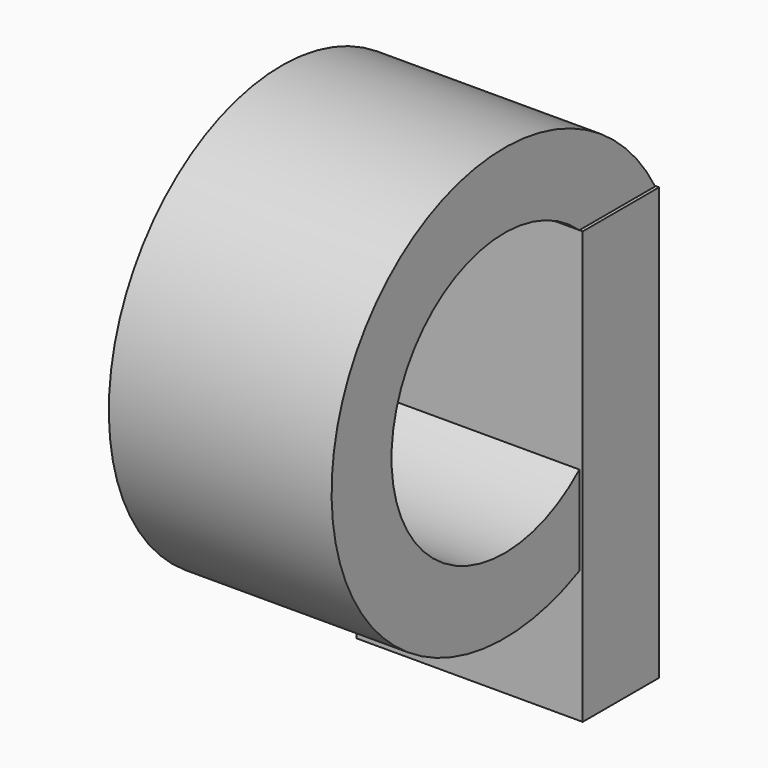
from build123d import *

# Parameters (mm, degrees)
F0_R     = 24.6246836301
F1_DEPTH = 25.4
F2_R     = 16.0828148766
F3_DEPTH = 25.401
F4_W     = 28.0453877614
F4_H     = 49.2377767596
F5_DEPTH = 25.77823
F6_DEPTH = 17.15412


with BuildPart() as f1:
    # F0 (on Right) → F1 (new body)
    with BuildSketch(Plane.YZ):
        with Locations((0, 37.2249111533)):
            Circle(F0_R)
    extrude(amount=-F1_DEPTH)

    # F2 (on face) → F3 (cut, through all)
    with BuildSketch(Plane(origin=(-25.4, 0, 0), x_dir=(0, -1, 0), z_dir=(-1, 0, 0))):
        with Locations((0, 37.2249111533)):
            Circle(F2_R)
    extrude(amount=-F3_DEPTH, mode=Mode.SUBTRACT)

    # F4 (on face) → F5 (join)
    with BuildSketch(Plane(origin=(-25.4, 0, 0), x_dir=(0, -1, 0), z_dir=(-1, 0, 0))):
        with Locations((-24.7160560406, 24.6188883798)):
            Rectangle(F4_W, F4_H)
    extrude(amount=-F5_DEPTH)

    # F6 (cut): a face of the model
    f6_faces = [f1.faces().sort_by_distance(p)[0] for p in [
        (-12.510885, 38.7387499213, 24.6188883798),
    ]]
    extrude(f6_faces, amount=-F6_DEPTH, mode=Mode.SUBTRACT)


solid = f1.part
